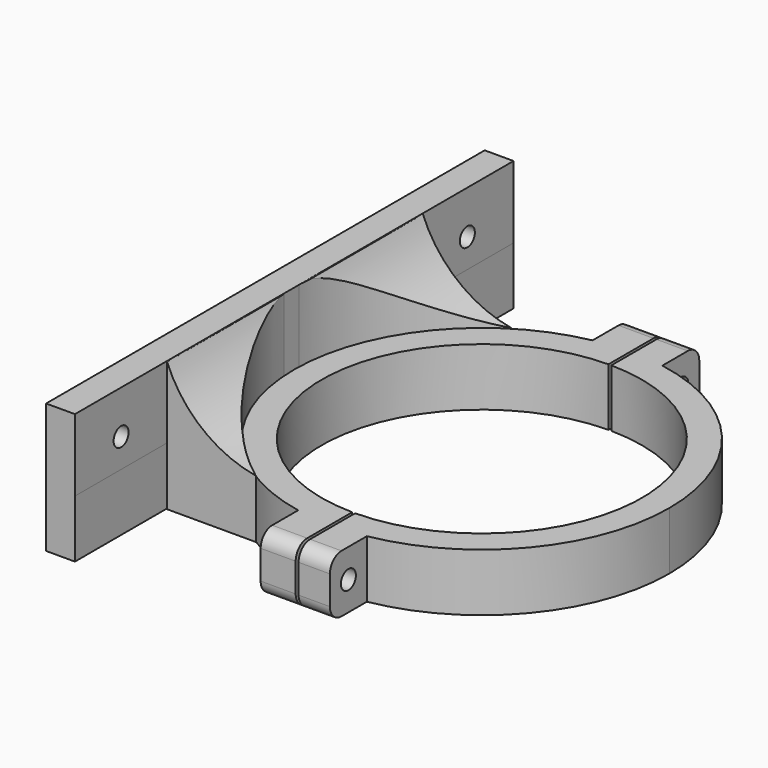
from build123d import *

# Parameters (mm, degrees)
F1_DEPTH  = 20
F0_R      = 55.5
F2_R      = 3.25
F3_DEPTH  = 24
F4_W      = 10
F4_H      = 190
F5_DEPTH  = 25
F7_DEPTH  = 45
F9_DEPTH  = 150
F10_R     = 3.25
F11_DEPTH = 25
F13_DEPTH = 25
F14_R     = 5


with BuildPart() as f1:
    # F0 (on Top) → F1 (new body)
    with BuildSketch(Plane.XY):
        Polygon((-65, -95), (-65, -6.1e-09), (-65, 95), (-75, 95), (-75, -95), align=None)
    extrude(amount=F1_DEPTH)



with BuildPart() as f1b:
    # F0 (on Top) → F1, piece 2 (new body)
    with BuildSketch(Plane.XY):
        with BuildLine():
            ThreePointArc((11.3706691191, -63.9977178014), (49.8201439818, -41.7486916397), (65, 0))
            ThreePointArc((65, 0), (49.8201439818, 41.7486916397), (11.3706691191, 63.9977178014))
            ThreePointArc((11.3706691191, 63.9977178014), (-0.6403388413, 64.9968458171), (-12.6293308809, 63.7612735248))
            ThreePointArc((-12.6293308809, 63.7612735248), (-50.2290080912, 41.255869233), (-65, -6.1e-09))
            ThreePointArc((-65, -6.1e-09), (-50.2290080873, -41.2558692378), (-12.6293308809, -63.7612735248))
            ThreePointArc((-12.6293308809, -63.7612735248), (-0.6403388413, -64.9968458171), (11.3706691191, -63.9977178014))
        make_face()
        Circle(F0_R, mode=Mode.SUBTRACT)
        with BuildLine():
            ThreePointArc((-12.6293308809, 63.7612735248), (-0.6403388413, 64.9968458171), (11.3706691191, 63.9977178014))
            Line((11.3706691191, 63.9977178014), (11.3706691191, 80))
            Line((11.3706691191, 80), (-12.6293308809, 80))
            Line((-12.6293308809, 80), (-12.6293308809, 63.7612735248))
        make_face()
        with BuildLine():
            Line((11.3706691191, -80), (11.3706691191, -63.9977178014))
            ThreePointArc((11.3706691191, -63.9977178014), (-0.6403388413, -64.9968458171), (-12.6293308809, -63.7612735248))
            Line((-12.6293308809, -63.7612735248), (-12.6293308809, -80))
            Line((-12.6293308809, -80), (11.3706691191, -80))
        make_face()
    extrude(amount=F1_DEPTH)

    # F2 (on face) → F3 (cut, through all)
    with BuildSketch(Plane.YZ.offset(11.3706691191)):
        with Locations((-72, 10)):
            Circle(F2_R)
        with Locations((72, 10)):
            Circle(F2_R)
    extrude(amount=-F3_DEPTH, mode=Mode.SUBTRACT)


with BuildPart() as f1_1:
    add(f1.part)

    add(f1b.part)  # F5 merges F1b
    # F4 (on face) → F5 (join)
    with BuildSketch(Plane.XY.offset(20)):
        with Locations((-70, 0)):
            Rectangle(F4_W, F4_H)
    extrude(amount=F5_DEPTH)

    # F10 (on face) → F11 (cut)
    with BuildSketch(Plane.YZ.offset(-65)):
        with Locations((-75, 30)):
            Circle(F10_R)
        with Locations((75, 30)):
            Circle(F10_R)
    extrude(amount=-F11_DEPTH, mode=Mode.SUBTRACT)

    # F12 (on face) → F13 (cut)
    with BuildSketch(Plane.XY.offset(20)):
        with BuildLine():
            Line((0.5, 80), (-0.5, 80))
            Line((-0.5, 80), (-0.5, 55.497747702))
            ThreePointArc((-0.5, 55.497747702), (0, 55.5), (0.5, 55.497747702))
            Line((0.5, 55.497747702), (0.5, 80))
        make_face()
        with BuildLine():
            ThreePointArc((0.5, -55.497747702), (0, -55.5), (-0.5, -55.497747702))
            Line((-0.5, -55.497747702), (-0.5, -80))
            Line((-0.5, -80), (0.5, -80))
            Line((0.5, -80), (0.5, -55.497747702))
        make_face()
    extrude(amount=-F13_DEPTH, mode=Mode.SUBTRACT)

    # F14
    f14_edges = [f1_1.edges().sort_by_distance(p)[0] for p in [
        (-6.564665, -80, 0),
        (5.935335, -80, 0),
        (5.935335, -80, 20),
        (-6.564665, -80, 20),
        (-6.564665, 80, 0),
        (5.935335, 80, 0),
        (-6.564665, 80, 20),
        (5.935335, 80, 20),
    ]]
    fillet(f14_edges, radius=F14_R)


with BuildPart() as f7:
    # F6 (on face) → F7 (new body)
    with BuildSketch(Plane(origin=(0, 0, 0), x_dir=(1, 0, 0), z_dir=(0, 0, -1))):
        with BuildLine():
            ThreePointArc((-64.8358060031, 4.6171701211), (-55.5829947499, 33.8047913994), (-33.9223448814, 55.446140693))
            Line((-33.9223448814, 55.446140693), (-64.7187477277, 55.446140693))
            Line((-64.7187477277, 55.446140693), (-64.8358060031, 4.6171701211))
        make_face()
    extrude(amount=-F7_DEPTH)


with BuildPart() as f7b:
    # F6 (on face) → F7, piece 2 (new body)
    with BuildSketch(Plane(origin=(0, 0, 0), x_dir=(1, 0, 0), z_dir=(0, 0, -1))):
        with BuildLine():
            ThreePointArc((-34.0510388969, -55.3671992252), (-56.3898963773, -32.7090686221), (-64.9894624502, -2.0747267928))
            Line((-64.9894624502, -2.0747267928), (-64.7187896644, -55.3671992252))
            Line((-64.7187896644, -55.3671992252), (-34.0510388969, -55.3671992252))
        make_face()
    extrude(amount=-F7_DEPTH)


with BuildPart() as f9_tool:
    # F8 (on face) → F9 (new body)
    with BuildSketch(Plane.XZ.offset(55.446140693)):
        with BuildLine():
            Line((-33.9223448814, 45), (-64.7187477277, 45))
            ThreePointArc((-64.7187477277, 45), (-52.5839000645, 28.5513566739), (-33.9223448814, 20.2111676335))
            Line((-33.9223448814, 20.2111676335), (-33.9223448814, 45))
        make_face()
    extrude(amount=-F9_DEPTH)


with BuildPart() as f7_1:
    add(f7.part)

    # F9: cut by f9_tool
    add(f9_tool.part, mode=Mode.SUBTRACT)


with BuildPart() as f7b_1:
    add(f7b.part)

    # F9: cut by f9_tool
    add(f9_tool.part, mode=Mode.SUBTRACT)


solid = Compound([f1_1.part, f7_1.part, f7b_1.part])
